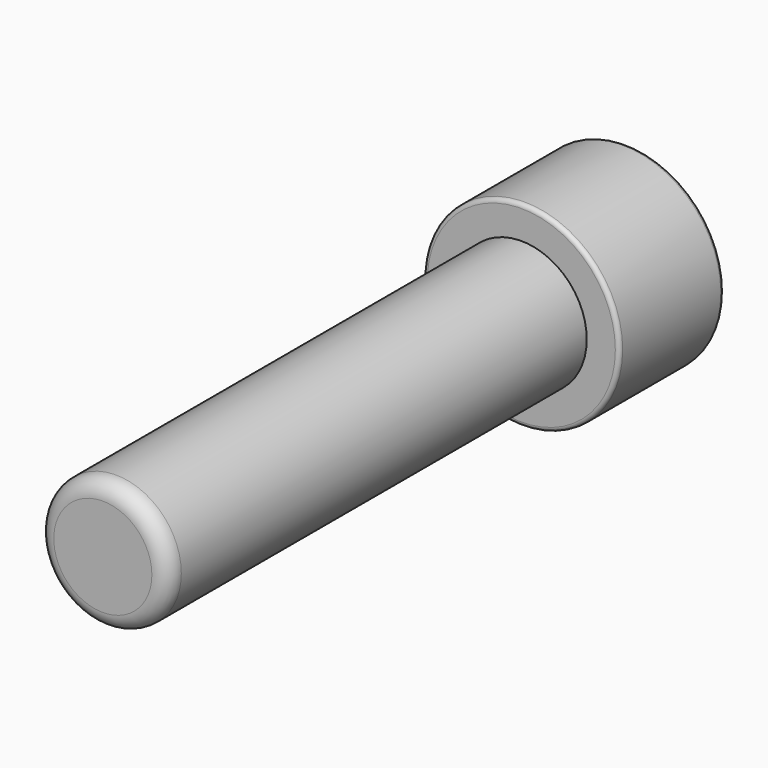
from build123d import *

# Parameters (mm, degrees)
F0_R     = 4
F1_DEPTH = 32
F0_R_2   = 6
F2_DEPTH = 8
F4_DEPTH = 6
F5_R     = 0.25
F6_R     = 1


with BuildPart() as f1:
    # F0 (on Front) → F1 (new body)
    with BuildSketch(Plane.XZ):
        Circle(F0_R)
    extrude(amount=F1_DEPTH)

    # F0 (on Front) → F2 (join)
    with BuildSketch(Plane.XZ):
        Circle(F0_R_2)
        Circle(F0_R, mode=Mode.SUBTRACT)
        Circle(F0_R)
    extrude(amount=-F2_DEPTH)

    # F3 (on face) → F4 (cut)
    with BuildSketch(Plane(origin=(0, 8, 0), x_dir=(-1, 0, 0), z_dir=(0, 1, 0))):
        Polygon((-3, 1.732051), (-3, -1.732051), (0, -3.464102), (3, -1.732051), (3, 1.732051), (0, 3.464102), align=None)
    extrude(amount=-F4_DEPTH, mode=Mode.SUBTRACT)

    # F5
    f5_edges = [f1.edges().sort_by_distance(p)[0] for p in [
        (1.5, 8, -2.598076),
        (-1.5, 8, -2.598076),
        (-3, 8, 0),
        (-1.5, 8, 2.598076),
        (1.5, 8, 2.598076),
        (3, 8, 0),
        (-6, 8, 0),
        (1.5, 2, -2.598076),
        (-1.5, 2, -2.598076),
        (3, 2, 0),
        (1.5, 2, 2.598076),
        (-1.5, 2, 2.598076),
        (-3, 2, 0),
        (-6, 0, 0),
    ]]
    fillet(f5_edges, radius=F5_R)

    # F6
    f6_edges = [f1.edges().sort_by_distance(p)[0] for p in [
        (-4, -32, 0),
    ]]
    fillet(f6_edges, radius=F6_R)


solid = f1.part
